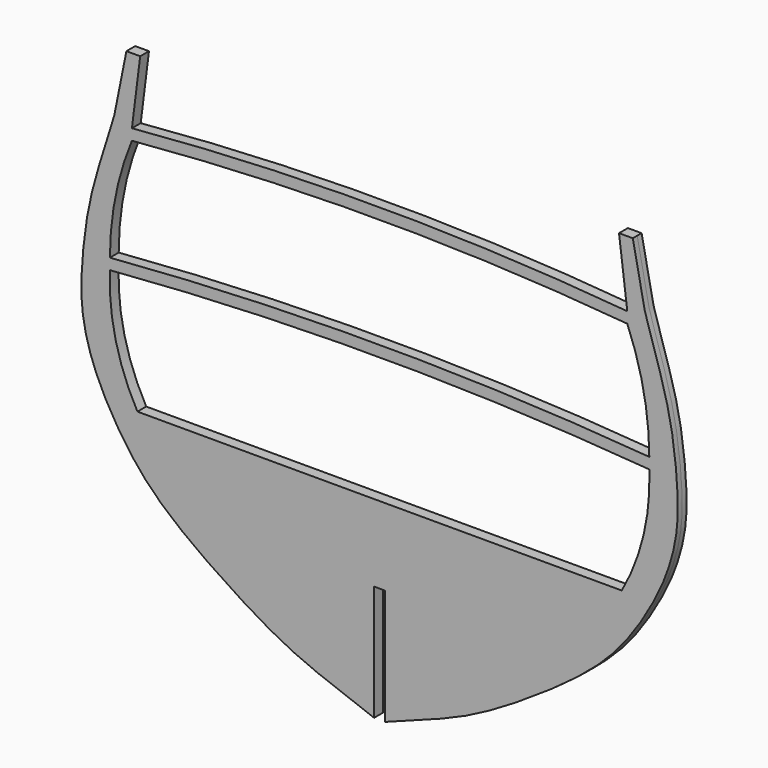
from build123d import *

# Parameters (mm, degrees)
F1_DEPTH = 1.5875


with BuildPart() as f1:
    # F0 (on Front) → F1 (new body, symmetric)
    with BuildSketch(Plane.XZ):
        with BuildLine():
            Line((-1.5875, -22.225), (0, -22.225))
            Line((0, -22.225), (1.5875, -22.225))
            Line((1.5875, -22.225), (1.5875, -55.5625))
            add(Edge.make_bspline(
                [(1.5875, -55.5625), (19.05, -49.2125), (29.2076802304, -44.9621439022), (51.924683385, -30.4310733872), (67.0036426543, -18.2700136727), (76.439877917, -5.0718252395), (82.9787830341, 7.6546021013), (86.3419250395, 20.5651672604), (85.9062998161, 33.2991842766), (84.3704141537, 46.3641116795), (81.3673104522, 57.8403307929), (75.4566187378, 76.2163601744), (76.99375, 71.4375), (73.025, 90.4875)],
                knots=[0, 0, 0, 0, 0.126554772, 0.2339315263, 0.3321600431, 0.4203017168, 0.5036609651, 0.5837012308, 0.6625375404, 0.7416800163, 0.8217202819, 0.902414585, 1, 1, 1, 1], degree=3))
            Line((73.025, 90.4875), (69.05625, 90.4875))
            Line((69.05625, 90.4875), (71.4375, 71.4375))
            ThreePointArc((71.4375, 71.4375), (0, 74.6125), (-71.4375, 71.4375))
            Line((-71.4375, 71.4375), (-69.05625, 90.4875))
            Line((-69.05625, 90.4875), (-73.025, 90.4875))
            add(Edge.make_bspline(
                [(-1.5875, -55.5625), (-19.05, -49.2125), (-29.2076802304, -44.9621439022), (-51.924683385, -30.4310733872), (-67.0036426543, -18.2700136727), (-76.439877917, -5.0718252395), (-82.9787830341, 7.6546021013), (-86.3419250395, 20.5651672604), (-85.9062998161, 33.2991842766), (-84.3704141537, 46.3641116795), (-81.3673104522, 57.8403307929), (-75.4566187378, 76.2163601744), (-76.99375, 71.4375), (-73.025, 90.4875)],
                knots=[0, 0, 0, 0, 0.126554772, 0.2339315263, 0.3321600431, 0.4203017168, 0.5036609651, 0.5837012308, 0.6625375404, 0.7416800163, 0.8217202819, 0.902414585, 1, 1, 1, 1], degree=3))
            Line((-1.5875, -55.5625), (-1.5875, -22.225))
        make_face()
        with BuildLine():
            Line((69.85, 0), (0, 0))
            Line((0, 0), (-69.85, 0))
            ThreePointArc((-69.85, 0), (-76.1352447987, 16.1172036194), (-77.7875, 33.3375))
            ThreePointArc((-77.7875, 33.3375), (0, 36.5125), (77.7875, 33.3375))
            ThreePointArc((77.7875, 33.3375), (76.1352447987, 16.1172036194), (69.85, 0))
        make_face(mode=Mode.SUBTRACT)
        with BuildLine():
            ThreePointArc((-71.4375, 68.2625), (0, 71.4375), (71.4375, 68.2625))
            ThreePointArc((71.4375, 68.2625), (76.1691718227, 52.6988343645), (77.7875, 36.5125))
            ThreePointArc((77.7875, 36.5125), (0, 39.6875), (-77.7875, 36.5125))
            ThreePointArc((-77.7875, 36.5125), (-76.1691718227, 52.6988343645), (-71.4375, 68.2625))
        make_face(mode=Mode.SUBTRACT)
    extrude(amount=F1_DEPTH, both=True)


solid = f1.part
